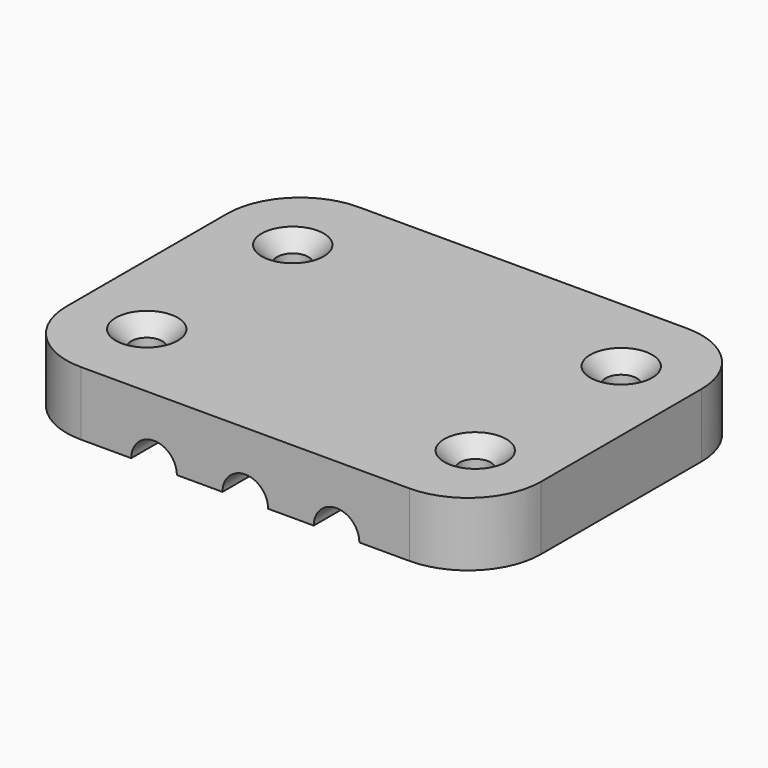
from build123d import *

# Parameters (mm, degrees)
SKETCH_W        = 52
SKETCH_H        = 38
SKETCH_R        = 1.7
PAD_DEPTH       = 7
SKETCH001_R     = 2.5
POCKET_DEPTH    = 38.001
SKETCH002_W     = 28
SKETCH002_H     = 28
POCKET001_DEPTH = 4
FILLET_R        = 8
FILLET001_R     = 8
FILLET002_R     = 8
FILLET003_R     = 8
CHAMFER_SIZE    = 1.7
CHAMFER001_SIZE = 1.7
CHAMFER002_SIZE = 1.7
CHAMFER003_SIZE = 1.7


with BuildPart() as part:
    # Sketch → Pad (new body)
    with BuildSketch(Plane.XY):
        Rectangle(SKETCH_W, SKETCH_H)
        with Locations((-18, 10)):
            Circle(SKETCH_R, mode=Mode.SUBTRACT)
        with Locations((18, 10)):
            Circle(SKETCH_R, mode=Mode.SUBTRACT)
        with Locations((-18, -10)):
            Circle(SKETCH_R, mode=Mode.SUBTRACT)
        with Locations((18, -10)):
            Circle(SKETCH_R, mode=Mode.SUBTRACT)
    extrude(amount=PAD_DEPTH)

    # Sketch001 → Pocket (cut, through all)
    with BuildSketch(Plane.XZ.offset(19)):
        with Locations((-10, 0)):
            Circle(SKETCH001_R)
        Circle(SKETCH001_R)
        with Locations((10, 0)):
            Circle(SKETCH001_R)
    extrude(amount=-POCKET_DEPTH, mode=Mode.SUBTRACT)

    # Sketch002 → Pocket001 (cut)
    with BuildSketch(Plane(origin=(0, 0, 0), x_dir=(1, 0, 0), z_dir=(0, 0, -1))):
        Rectangle(SKETCH002_W, SKETCH002_H)
    extrude(amount=-POCKET001_DEPTH, mode=Mode.SUBTRACT)

    # Fillet
    fillet_edges = [part.edges().sort_by_distance(p)[0] for p in [
        (-26, -19, 3.5),
    ]]
    fillet(fillet_edges, radius=FILLET_R)

    # Fillet001
    fillet001_edges = [part.edges().sort_by_distance(p)[0] for p in [
        (-26, 19, 3.5),
    ]]
    fillet(fillet001_edges, radius=FILLET001_R)

    # Fillet002
    fillet002_edges = [part.edges().sort_by_distance(p)[0] for p in [
        (26, 19, 3.5),
    ]]
    fillet(fillet002_edges, radius=FILLET002_R)

    # Fillet003
    fillet003_edges = [part.edges().sort_by_distance(p)[0] for p in [
        (26, -19, 3.5),
    ]]
    fillet(fillet003_edges, radius=FILLET003_R)

    # Chamfer
    chamfer_edges = [part.edges().sort_by_distance(p)[0] for p in [
        (16.3, -10, 7),
    ]]
    chamfer(chamfer_edges, length=CHAMFER_SIZE)

    # Chamfer001
    chamfer001_edges = [part.edges().sort_by_distance(p)[0] for p in [
        (16.3, 10, 7),
    ]]
    chamfer(chamfer001_edges, length=CHAMFER001_SIZE)

    # Chamfer002
    chamfer002_edges = [part.edges().sort_by_distance(p)[0] for p in [
        (-19.7, 10, 7),
    ]]
    chamfer(chamfer002_edges, length=CHAMFER002_SIZE)

    # Chamfer003
    chamfer003_edges = [part.edges().sort_by_distance(p)[0] for p in [
        (-19.7, -10, 7),
    ]]
    chamfer(chamfer003_edges, length=CHAMFER003_SIZE)


solid = part.part
